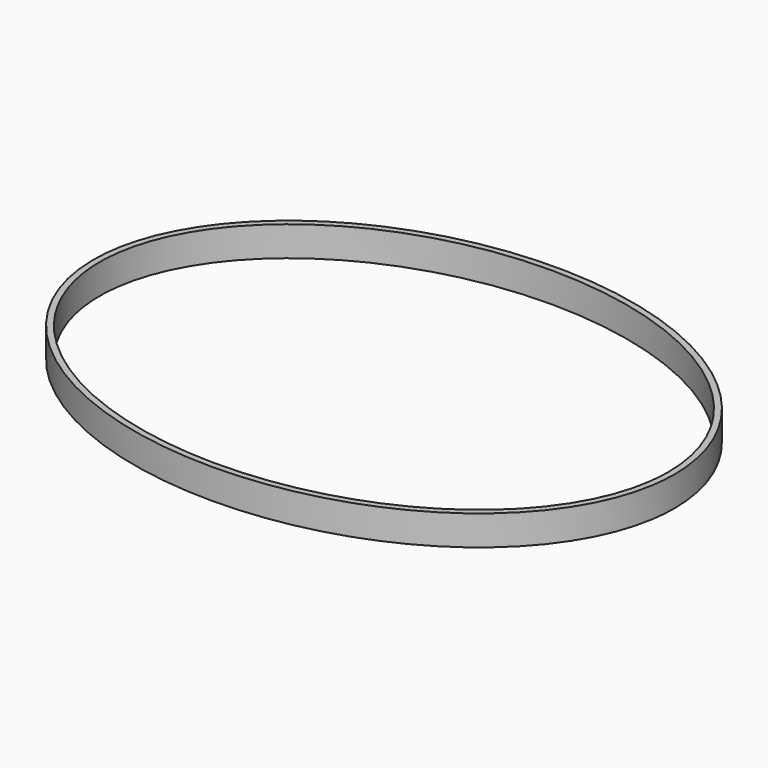
from build123d import *

# Parameters (mm, degrees)
F1_DEPTH = 12


with BuildPart() as f1:
    # F0 (on Top) → F1 (new body)
    with BuildSketch(Plane.XY):
        with BuildLine():
            add(Edge.make_bspline(
                [(116.5, 0), (116.5, 149.822395), (-58.25, 74.911197), (-233, 0), (-58.25, -74.911197), (116.5, -149.822395), (116.5, 0)],
                knots=[0, 0, 0, 2.094395, 2.094395, 4.18879, 4.18879, 6.283185, 6.283185, 6.283185], degree=2, weights=[1, 0.5, 1, 0.5, 1, 0.5, 1]))
        make_face()
        with BuildLine():
            add(Edge.make_bspline(
                [(114, 0), (114, 145.492268), (-57, 72.746134), (-228, 0), (-57, -72.746134), (114, -145.492268), (114, 0)],
                knots=[0, 0, 0, 2.094395, 2.094395, 4.18879, 4.18879, 6.283185, 6.283185, 6.283185], degree=2, weights=[1, 0.5, 1, 0.5, 1, 0.5, 1]))
        make_face(mode=Mode.SUBTRACT)
    extrude(amount=F1_DEPTH)


solid = f1.part
